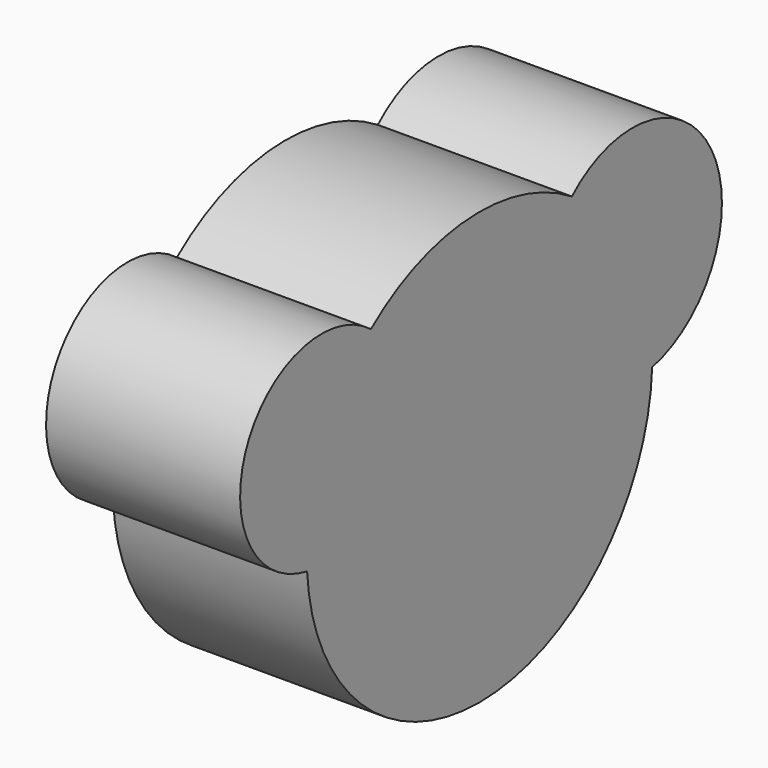
from build123d import *

# Parameters (mm, degrees)
F1_DEPTH = 40.03749


with BuildPart() as f1:
    # F0 (on Right) → F1 (new body)
    with BuildSketch(Plane.YZ):
        with BuildLine():
            ThreePointArc((44.5198227701, -1.7826942255), (44.5465801188, -0.8915256021), (44.5555004257, 0))
            ThreePointArc((44.5555004257, 0), (43.3760301156, 10.1839397872), (39.9000649082, 19.8287023908))
            Line((39.9000649082, 19.8287023908), (16.4275774694, 19.2902224238))
            ThreePointArc((16.4275774694, 19.2902224238), (25.6072357444, 2.2662942698), (44.5198227701, -1.7826942255))
        make_face()
        with BuildLine():
            ThreePointArc((39.9000649082, 19.8287023908), (43.3760301156, 10.1839397872), (44.5555004257, 0))
            ThreePointArc((44.5555004257, 0), (44.5465801188, -0.8915256021), (44.5198227701, -1.7826942255))
            ThreePointArc((44.5198227701, -1.7826942255), (57.4595301276, 6.3123736108), (62.5101083198, 20.7157693803))
            ThreePointArc((62.5101083198, 20.7157693803), (48.6974420854, 41.8425767898), (23.8043112787, 37.6636082011))
            ThreePointArc((23.8043112787, 37.6636082011), (33.0769232647, 29.8514616983), (39.9000649082, 19.8287023908))
        make_face()
        with BuildLine():
            Line((16.4275774694, 19.2902224238), (39.9000649082, 19.8287023908))
            ThreePointArc((39.9000649082, 19.8287023908), (33.0769232647, 29.8514616983), (23.8043112787, 37.6636082011))
            ThreePointArc((23.8043112787, 37.6636082011), (18.0440587641, 29.3087570216), (16.4275774694, 19.2902224238))
        make_face()
        with BuildLine():
            ThreePointArc((0, -44.5555004257), (30.8687850819, -32.1295926795), (44.5198227701, -1.7826942255))
            ThreePointArc((44.5198227701, -1.7826942255), (25.6072357444, 2.2662942698), (16.4275774694, 19.2902224238))
            Line((16.4275774694, 19.2902224238), (0, 18.9133590259))
            Line((0, 18.9133590259), (0, -44.5555004257))
        make_face()
        with BuildLine():
            ThreePointArc((16.4275774694, 19.2902224238), (18.0440587641, 29.3087570216), (23.8043112787, 37.6636082011))
            ThreePointArc((23.8043112787, 37.6636082011), (-2.5921293007, 44.4800346658), (-28.0181032693, 34.6435925876))
            ThreePointArc((-28.0181032693, 34.6435925876), (-22.0629919245, 27.4874750802), (-19.7900024173, 18.4593585764))
            Line((-19.7900024173, 18.4593585764), (0, 18.9133590259))
            Line((0, 18.9133590259), (16.4275774694, 19.2902224238))
        make_face()
        with BuildLine():
            ThreePointArc((-44.4751519011, -2.6745993272), (-30.5452492764, -32.4373298041), (0, -44.5555004257))
            Line((0, -44.5555004257), (0, 18.9133590259))
            Line((0, 18.9133590259), (-19.7900024173, 18.4593585764))
            ThreePointArc((-19.7900024173, 18.4593585764), (-19.7858629772, 18.2187543647), (-19.7844831034, 17.9781185038))
            ThreePointArc((-19.7844831034, 17.9781185038), (-27.304798405, 1.8833687428), (-44.4751519011, -2.6745993272))
        make_face()
        with BuildLine():
            ThreePointArc((-19.7900024173, 18.4593585764), (-22.0629919245, 27.4874750802), (-28.0181032693, 34.6435925876))
            ThreePointArc((-28.0181032693, 34.6435925876), (-35.3877865562, 27.0720738186), (-40.7673873733, 17.9781185038))
            Line((-40.7673873733, 17.9781185038), (-19.7900024173, 18.4593585764))
        make_face()
        with BuildLine():
            ThreePointArc((-40.7673873733, 17.9781185038), (-35.3877865562, 27.0720738186), (-28.0181032693, 34.6435925876))
            ThreePointArc((-28.0181032693, 34.6435925876), (-59.9663230472, 26.444708171), (-44.4751519011, -2.6745993272))
            ThreePointArc((-44.4751519011, -2.6745993272), (-43.8543762233, 7.8731381447), (-40.7673873733, 17.9781185038))
        make_face()
        with BuildLine():
            ThreePointArc((-40.7673873733, 17.9781185038), (-43.8543762233, 7.8731381447), (-44.4751519011, -2.6745993272))
            ThreePointArc((-44.4751519011, -2.6745993272), (-27.304798405, 1.8833687428), (-19.7844831034, 17.9781185038))
            ThreePointArc((-19.7844831034, 17.9781185038), (-19.7858629772, 18.2187543647), (-19.7900024173, 18.4593585764))
            Line((-19.7900024173, 18.4593585764), (-40.7673873733, 17.9781185038))
        make_face()
    extrude(amount=-F1_DEPTH)


solid = f1.part
